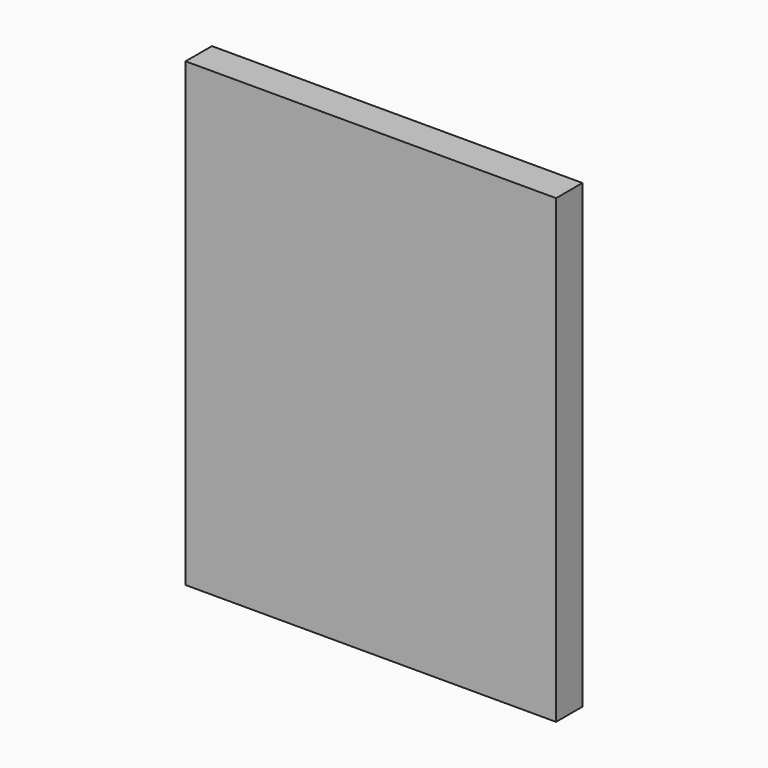
from build123d import *

# Parameters (mm, degrees)
BOX033_W               = 1
BOX033_H               = 20
BOX033_DEPTH           = 275
BOX034_W               = 4
BOX034_H               = 20
BOX034_DEPTH           = 275
BOX035_W               = 225
BOX035_H               = 20
BOX035_DEPTH           = 4
BOX036_W               = 225
BOX036_H               = 20
BOX036_DEPTH           = 1
BOX001_W               = 35
BOX001_H               = 30
BOX001_DEPTH           = 10
BOX002_W               = 10
BOX002_H               = 30
BOX002_DEPTH           = 10
BOX004_W               = 10
BOX004_H               = 30
BOX004_DEPTH           = 10
BOX005_W               = 10
BOX005_H               = 28.9
BOX005_DEPTH           = 10
BOX006_W               = 10
BOX006_H               = 28.9
BOX006_DEPTH           = 10
BOX007_W               = 10
BOX007_H               = 28.9
BOX007_DEPTH           = 10
BOX009_W               = 12
BOX009_H               = 30
BOX009_DEPTH           = 10
BOX008_W               = 10
BOX008_H               = 28.9
BOX008_DEPTH           = 10
BOX010_W               = 45
BOX010_H               = 30
BOX010_DEPTH           = 10
BOX012_W               = 45
BOX012_H               = 30
BOX012_DEPTH           = 10
BOX011_W               = 35
BOX011_H               = 30
BOX011_DEPTH           = 10
BOX013_W               = 35
BOX013_H               = 30
BOX013_DEPTH           = 10
BOX014_W               = 45
BOX014_H               = 30
BOX014_DEPTH           = 10
BOX015_W               = 35
BOX015_H               = 30
BOX015_DEPTH           = 10
BOX016_W               = 45
BOX016_H               = 30
BOX016_DEPTH           = 10
BOX018_W               = 10
BOX018_H               = 30
BOX018_DEPTH           = 10
BOX017_W               = 10
BOX017_H               = 30
BOX017_DEPTH           = 10
BOX019_W               = 18
BOX019_H               = 30
BOX019_DEPTH           = 10
BOX020_W               = 10
BOX020_H               = 30
BOX020_DEPTH           = 10
BOX021_W               = 10
BOX021_H               = 30
BOX021_DEPTH           = 10
BOX022_W               = 10
BOX022_H               = 30
BOX022_DEPTH           = 10
BOX023_W               = 10
BOX023_H               = 30
BOX023_DEPTH           = 10
BOX032_W               = 10
BOX032_H               = 30
BOX032_DEPTH           = 10
BOX031_W               = 10
BOX031_H               = 30
BOX031_DEPTH           = 10
BOX030_W               = 10
BOX030_H               = 30
BOX030_DEPTH           = 10
BOX028_W               = 10
BOX028_H               = 30
BOX028_DEPTH           = 10
BOX027_W               = 10
BOX027_H               = 30
BOX027_DEPTH           = 10
BOX024_W               = 10
BOX024_H               = 30
BOX024_DEPTH           = 11
BOX025_W               = 10
BOX025_H               = 30
BOX025_DEPTH           = 10
BOX026_W               = 10
BOX026_H               = 30
BOX026_DEPTH           = 10
BOX029_W               = 10
BOX029_H               = 30
BOX029_DEPTH           = 10
BOX_W                  = 220
BOX_H                  = 4
BOX_DEPTH              = 275
FUSION_PLACEMENT_ANGLE = 180


with BuildPart() as cubo033:
    # Box033 → Box033 (new body)
    with BuildSketch(Plane(origin=(-49, 40, -147), x_dir=(-1, 0, 0), z_dir=(0, 0, 1))):
        with Locations((0.5, 10)):
            Rectangle(BOX033_W, BOX033_H)
    extrude(amount=BOX033_DEPTH)


with BuildPart() as cubo034:
    # Box034 → Box034 (new body)
    with BuildSketch(Plane(origin=(175, 40, -147), x_dir=(-1, 0, 0), z_dir=(0, 0, 1))):
        with Locations((2, 10)):
            Rectangle(BOX034_W, BOX034_H)
    extrude(amount=BOX034_DEPTH)


with BuildPart() as cubo035:
    # Box035 → Box035 (new body)
    with BuildSketch(Plane(origin=(175, 40, 128), x_dir=(-1, 0, 0), z_dir=(0, 0, 1))):
        with Locations((112.5, 10)):
            Rectangle(BOX035_W, BOX035_H)
    extrude(amount=BOX035_DEPTH)


with BuildPart() as cubo036:
    # Box036 → Box036 (new body)
    with BuildSketch(Plane(origin=(175, 40, -148), x_dir=(-1, 0, 0), z_dir=(0, 0, 1))):
        with Locations((112.5, 10)):
            Rectangle(BOX036_W, BOX036_H)
    extrude(amount=BOX036_DEPTH)


with BuildPart() as cubo001:
    # Box001 → Box001 (new body)
    with BuildSketch(Plane(origin=(-96, -54, 70), x_dir=(1, 0, 0), z_dir=(0, 0, 1))):
        with Locations((17.5, 15)):
            Rectangle(BOX001_W, BOX001_H)
    extrude(amount=BOX001_DEPTH)


with BuildPart() as cubo002:
    # Box002 → Box002 (new body)
    with BuildSketch(Plane(origin=(-142, -54, -110), x_dir=(1, 0, 0), z_dir=(0, 0, 1))):
        with Locations((5, 15)):
            Rectangle(BOX002_W, BOX002_H)
    extrude(amount=BOX002_DEPTH)


with BuildPart() as cubo004:
    # Box004 → Box004 (new body)
    with BuildSketch(Plane(origin=(-142, -54, -125), x_dir=(1, 0, 0), z_dir=(0, 0, 1))):
        with Locations((5, 15)):
            Rectangle(BOX004_W, BOX004_H)
    extrude(amount=BOX004_DEPTH)


with BuildPart() as cubo005:
    # Box005 → Box005 (new body)
    with BuildSketch(Plane(origin=(-106, -54, -115), x_dir=(1, 0, 0), z_dir=(0, 0, 1))):
        with Locations((5, 14.45)):
            Rectangle(BOX005_W, BOX005_H)
    extrude(amount=BOX005_DEPTH)


with BuildPart() as cubo006:
    # Box006 → Box006 (new body)
    with BuildSketch(Plane(origin=(-142, -54, -146), x_dir=(1, 0, 0), z_dir=(0, 0, 1))):
        with Locations((5, 14.45)):
            Rectangle(BOX006_W, BOX006_H)
    extrude(amount=BOX006_DEPTH)


with BuildPart() as cubo007:
    # Box007 → Box007 (new body)
    with BuildSketch(Plane(origin=(-59, -54, -146), x_dir=(1, 0, 0), z_dir=(0, 0, 1))):
        with Locations((5, 14.45)):
            Rectangle(BOX007_W, BOX007_H)
    extrude(amount=BOX007_DEPTH)


with BuildPart() as cubo009:
    # Box009 → Box009 (new body)
    with BuildSketch(Plane(origin=(-59, -54, -109), x_dir=(1, 0, 0), z_dir=(0, 0, 1))):
        with Locations((6, 15)):
            Rectangle(BOX009_W, BOX009_H)
    extrude(amount=BOX009_DEPTH)


with BuildPart() as cubo008:
    # Box008 → Box008 (new body)
    with BuildSketch(Plane(origin=(-59, -54, -125), x_dir=(1, 0, 0), z_dir=(0, 0, 1))):
        with Locations((5, 14.45)):
            Rectangle(BOX008_W, BOX008_H)
    extrude(amount=BOX008_DEPTH)


with BuildPart() as cubo010:
    # Box010 → Box010 (new body)
    with BuildSketch(Plane(origin=(-155, -54, 70), x_dir=(1, 0, 0), z_dir=(0, 0, 1))):
        with Locations((22.5, 15)):
            Rectangle(BOX010_W, BOX010_H)
    extrude(amount=BOX010_DEPTH)


with BuildPart() as cubo012:
    # Box012 → Box012 (new body)
    with BuildSketch(Plane(origin=(2, -54, 70), x_dir=(1, 0, 0), z_dir=(0, 0, 1))):
        with Locations((22.5, 15)):
            Rectangle(BOX012_W, BOX012_H)
    extrude(amount=BOX012_DEPTH)


with BuildPart() as cubo011:
    # Box011 → Box011 (new body)
    with BuildSketch(Plane(origin=(-46, -54, 70), x_dir=(1, 0, 0), z_dir=(0, 0, 1))):
        with Locations((17.5, 15)):
            Rectangle(BOX011_W, BOX011_H)
    extrude(amount=BOX011_DEPTH)


with BuildPart() as cubo013:
    # Box013 → Box013 (new body)
    with BuildSketch(Plane(origin=(-96, -54, -77), x_dir=(1, 0, 0), z_dir=(0, 0, 1))):
        with Locations((17.5, 15)):
            Rectangle(BOX013_W, BOX013_H)
    extrude(amount=BOX013_DEPTH)


with BuildPart() as cubo014:
    # Box014 → Box014 (new body)
    with BuildSketch(Plane(origin=(-155, -54, -77), x_dir=(1, 0, 0), z_dir=(0, 0, 1))):
        with Locations((22.5, 15)):
            Rectangle(BOX014_W, BOX014_H)
    extrude(amount=BOX014_DEPTH)


with BuildPart() as cubo015:
    # Box015 → Box015 (new body)
    with BuildSketch(Plane(origin=(-46, -54, -77), x_dir=(1, 0, 0), z_dir=(0, 0, 1))):
        with Locations((17.5, 15)):
            Rectangle(BOX015_W, BOX015_H)
    extrude(amount=BOX015_DEPTH)


with BuildPart() as cubo016:
    # Box016 → Box016 (new body)
    with BuildSketch(Plane(origin=(2, -54, -78), x_dir=(1, 0, 0), z_dir=(0, 0, 1))):
        with Locations((22.5, 15)):
            Rectangle(BOX016_W, BOX016_H)
    extrude(amount=BOX016_DEPTH)


with BuildPart() as cubo018:
    # Box018 → Box018 (new body)
    with BuildSketch(Plane(origin=(35, -54, -128), x_dir=(1, 0, 0), z_dir=(0, 0, 1))):
        with Locations((5, 15)):
            Rectangle(BOX018_W, BOX018_H)
    extrude(amount=BOX018_DEPTH)


with BuildPart() as cubo017:
    # Box017 → Box017 (new body)
    with BuildSketch(Plane(origin=(-25, -54, -128), x_dir=(1, 0, 0), z_dir=(0, 0, 1))):
        with Locations((5, 15)):
            Rectangle(BOX017_W, BOX017_H)
    extrude(amount=BOX017_DEPTH)


with BuildPart() as cubo019:
    # Box019 → Box019 (new body)
    with BuildSketch(Plane(origin=(2, -54, -86), x_dir=(1, 0, 0), z_dir=(0, 0, 1))):
        with Locations((9, 15)):
            Rectangle(BOX019_W, BOX019_H)
    extrude(amount=BOX019_DEPTH)


with BuildPart() as cubo020:
    # Box020 → Box020 (new body)
    with BuildSketch(Plane(origin=(-56, -54, 77), x_dir=(1, 0, 0), z_dir=(0, 0, 1))):
        with Locations((5, 15)):
            Rectangle(BOX020_W, BOX020_H)
    extrude(amount=BOX020_DEPTH)


with BuildPart() as cubo021:
    # Box021 → Box021 (new body)
    with BuildSketch(Plane(origin=(21, -54, 112), x_dir=(1, 0, 0), z_dir=(0, 0, 1))):
        with Locations((5, 15)):
            Rectangle(BOX021_W, BOX021_H)
    extrude(amount=BOX021_DEPTH)


with BuildPart() as cubo022:
    # Box022 → Box022 (new body)
    with BuildSketch(Plane(origin=(-55, -54, 112), x_dir=(1, 0, 0), z_dir=(0, 0, 1))):
        with Locations((5, 15)):
            Rectangle(BOX022_W, BOX022_H)
    extrude(amount=BOX022_DEPTH)


with BuildPart() as cubo023:
    # Box023 → Box023 (new body)
    with BuildSketch(Plane(origin=(19, -54, 77), x_dir=(1, 0, 0), z_dir=(0, 0, 1))):
        with Locations((5, 15)):
            Rectangle(BOX023_W, BOX023_H)
    extrude(amount=BOX023_DEPTH)


with BuildPart() as cubo032:
    # Box032 → Box032 (new body)
    with BuildSketch(Plane(origin=(-8, -54, -4), x_dir=(1, 0, 0), z_dir=(0, 0, 1))):
        with Locations((5, 15)):
            Rectangle(BOX032_W, BOX032_H)
    extrude(amount=BOX032_DEPTH)


with BuildPart() as cubo031:
    # Box031 → Box031 (new body)
    with BuildSketch(Plane(origin=(-58, -54, -4), x_dir=(1, 0, 0), z_dir=(0, 0, 1))):
        with Locations((5, 15)):
            Rectangle(BOX031_W, BOX031_H)
    extrude(amount=BOX031_DEPTH)


with BuildPart() as cubo030:
    # Box030 → Box030 (new body)
    with BuildSketch(Plane(origin=(-108, -54, -4), x_dir=(1, 0, 0), z_dir=(0, 0, 1))):
        with Locations((5, 15)):
            Rectangle(BOX030_W, BOX030_H)
    extrude(amount=BOX030_DEPTH)


with BuildPart() as cubo028:
    # Box028 → Box028 (new body)
    with BuildSketch(Plane(origin=(-155, -54, -4), x_dir=(1, 0, 0), z_dir=(0, 0, 1))):
        with Locations((5, 15)):
            Rectangle(BOX028_W, BOX028_H)
    extrude(amount=BOX028_DEPTH)


with BuildPart() as cubo027:
    # Box027 → Box027 (new body)
    with BuildSketch(Plane(origin=(-64, -54, 75), x_dir=(1, 0, 0), z_dir=(0, 0, 1))):
        with Locations((5, 15)):
            Rectangle(BOX027_W, BOX027_H)
    extrude(amount=BOX027_DEPTH)


with BuildPart() as cubo024:
    # Box024 → Box024 (new body)
    with BuildSketch(Plane(origin=(-65, -54, 111), x_dir=(1, 0, 0), z_dir=(0, 0, 1))):
        with Locations((5, 15)):
            Rectangle(BOX024_W, BOX024_H)
    extrude(amount=BOX024_DEPTH)


with BuildPart() as cubo025:
    # Box025 → Box025 (new body)
    with BuildSketch(Plane(origin=(-139, -54, 111), x_dir=(1, 0, 0), z_dir=(0, 0, 1))):
        with Locations((5, 15)):
            Rectangle(BOX025_W, BOX025_H)
    extrude(amount=BOX025_DEPTH)


with BuildPart() as cubo026:
    # Box026 → Box026 (new body)
    with BuildSketch(Plane(origin=(-139, -54, 76), x_dir=(1, 0, 0), z_dir=(0, 0, 1))):
        with Locations((5, 15)):
            Rectangle(BOX026_W, BOX026_H)
    extrude(amount=BOX026_DEPTH)


with BuildPart() as cubo029:
    # Box029 → Box029 (new body)
    with BuildSketch(Plane(origin=(37, -54, -4), x_dir=(1, 0, 0), z_dir=(0, 0, 1))):
        with Locations((5, 15)):
            Rectangle(BOX029_W, BOX029_H)
    extrude(amount=BOX029_DEPTH)


with BuildPart() as obj1:
    # Box → Box (new body)
    with BuildSketch(Plane(origin=(-171, -24, -147), x_dir=(1, 0, 0), z_dir=(0, 0, 1))):
        with Locations((110, 2)):
            Rectangle(BOX_W, BOX_H)
    extrude(amount=BOX_DEPTH)

    # Fusion: union Cubo001, Cubo002, Cubo004, Cubo005, Cubo006, Cubo007, Cubo009, Cubo008, Cubo010, Cubo012, Cubo011, Cubo013, Cubo014, Cubo015, Cubo016, Cubo018, Cubo017, Cubo019, Cubo020, Cubo021, Cubo022, Cubo023, Cubo032, Cubo031, Cubo030, Cubo028, Cubo027, Cubo024, Cubo025, Cubo026, Cubo029
    add(cubo001.part)
    add(cubo002.part)
    add(cubo004.part)
    add(cubo005.part)
    add(cubo006.part)
    add(cubo007.part)
    add(cubo009.part)
    add(cubo008.part)
    add(cubo010.part)
    add(cubo012.part)
    add(cubo011.part)
    add(cubo013.part)
    add(cubo014.part)
    add(cubo015.part)
    add(cubo016.part)
    add(cubo018.part)
    add(cubo017.part)
    add(cubo019.part)
    add(cubo020.part)
    add(cubo021.part)
    add(cubo022.part)
    add(cubo023.part)
    add(cubo032.part)
    add(cubo031.part)
    add(cubo030.part)
    add(cubo028.part)
    add(cubo027.part)
    add(cubo024.part)
    add(cubo025.part)
    add(cubo026.part)
    add(cubo029.part)


with BuildPart() as obj1_1:
    # Fusion placement: moved
    add(obj1.part.rotate(Axis((0, 0, 0), (0, 0, 1)), FUSION_PLACEMENT_ANGLE))

    # Fusion010: union Cubo033, Cubo034, Cubo035, Cubo036
    add(cubo033.part)
    add(cubo034.part)
    add(cubo035.part)
    add(cubo036.part)


solid = obj1_1.part
